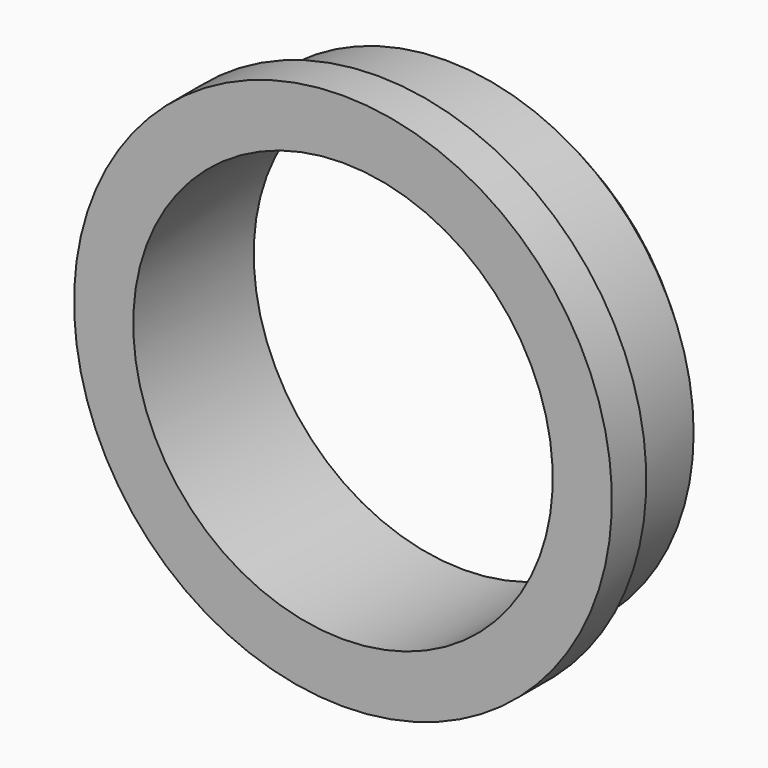
from build123d import *

# Parameters (mm, degrees)
F2_SIZE = 1


with BuildPart() as f1:
    # F0 (on Right) → F1 (revolve)
    with BuildSketch(Plane.YZ):
        Polygon((0, 9.75), (7, 9.75), (7, 11.5), (2, 11.5), (2, 12.5), (0, 12.5), align=None)
    revolve(axis=Axis((0, 5.735075, 0), (0, -1, 0)))

    # F2
    f2_edges = [f1.edges().sort_by_distance(p)[0] for p in [
        (0, 7, -11.5),
    ]]
    chamfer(f2_edges, length=F2_SIZE)


solid = f1.part
